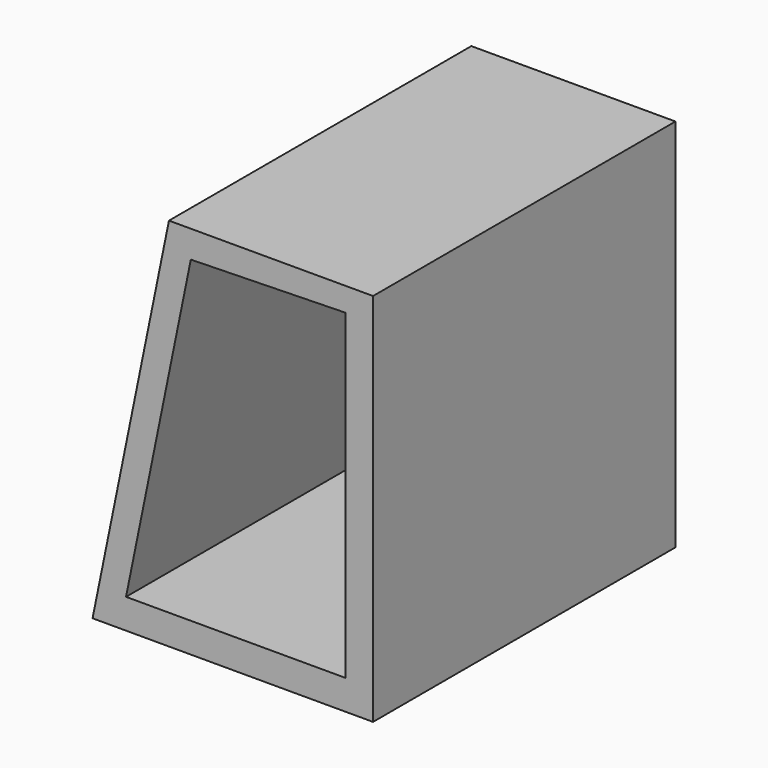
from build123d import *

# Parameters (mm, degrees)
F1_DEPTH = 76.2
F3_DEPTH = 76.2


with BuildPart() as f1:
    # F0 (on Front) → F1 (new body)
    with BuildSketch(Plane.XZ):
        Polygon((-22.8142144348, -7.4759378075), (-40.1447920939, -30.6418407269), (-40.1447920939, -51.2294247746), (-14.3985109646, -51.2294247746), (-10.2037430876, -30.6418407269), align=None)
        Polygon((-14.3985109646, -51.2294247746), (1.0032079061, -51.2294247746), (-10.2037430876, -30.6418407269), align=None)
        Polygon((1.0032079061, -51.2294247746), (1.0032079061, 24.3609752254), (-10.2037430876, -30.6418407269), align=None)
        Polygon((-10.2037430876, -30.6418407269), (1.0032079061, 24.3609752254), (-22.8142144348, -7.4759378075), align=None)
        Polygon((1.0032079061, 24.3609752254), (-40.1447920939, 24.3609752254), (-22.8142144348, -7.4759378075), align=None)
        Polygon((-22.8142144348, -7.4759378075), (-40.1447920939, 24.3609752254), (-40.1447920939, -30.6418407269), align=None)
        Polygon((-40.1447920939, -51.2294247746), (-40.1447920939, -30.6418407269), (-55.5465109646, -51.2294247746), align=None)
        Polygon((-40.1447920939, -30.6418407269), (-40.1447920939, 24.3609752254), (-55.5465109646, -51.2294247746), align=None)
    extrude(amount=F1_DEPTH)

    # F2 (on face) → F3 (cut)
    with BuildSketch(Plane(origin=(0, 0, 0), x_dir=(-1, 0, 0), z_dir=(0, 1, 0))):
        Polygon((35.7373778162, 18.879536265), (4.5163868926, 19.5903833956), (4.5163868926, -45.2243611217), (48.7986952066, -45.2243611217), align=None)
    extrude(amount=-F3_DEPTH, mode=Mode.SUBTRACT)


solid = f1.part
